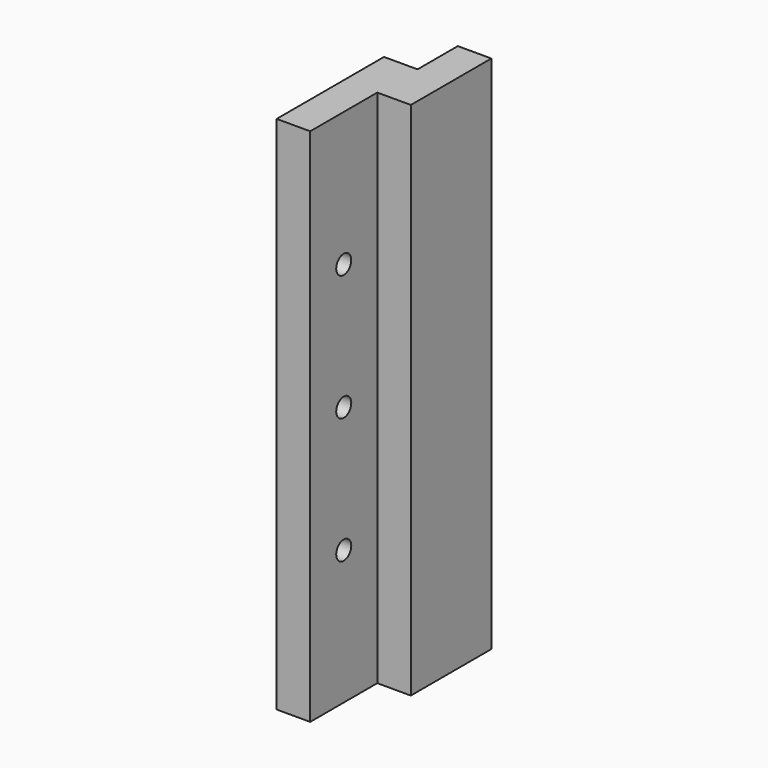
from build123d import *

# Parameters (mm, degrees)
F1_DEPTH = 98.425
F2_R     = 1.778
F3_DEPTH = 25.4


with BuildPart() as f1:
    # F0 (on Top) → F1 (new body)
    with BuildSketch(Plane.XY):
        Polygon((6.35, 25.4), (6.35, 15.875), (12.7, 15.875), (12.7, 34.925), (6.35, 34.925), align=None)
        Polygon((0, 25.4), (0, 0), (6.35, 0), (6.35, 15.875), (6.35, 25.4), align=None)
    extrude(amount=F1_DEPTH)

    # F2 (on face) → F3 (cut)
    with BuildSketch(Plane.YZ.offset(6.35)):
        with Locations((7.9375, 73.025)):
            Circle(F2_R)
        with Locations((7.9375, 49.2125)):
            Circle(F2_R)
        with Locations((7.9375, 25.4)):
            Circle(F2_R)
    extrude(amount=-F3_DEPTH, mode=Mode.SUBTRACT)


solid = f1.part
